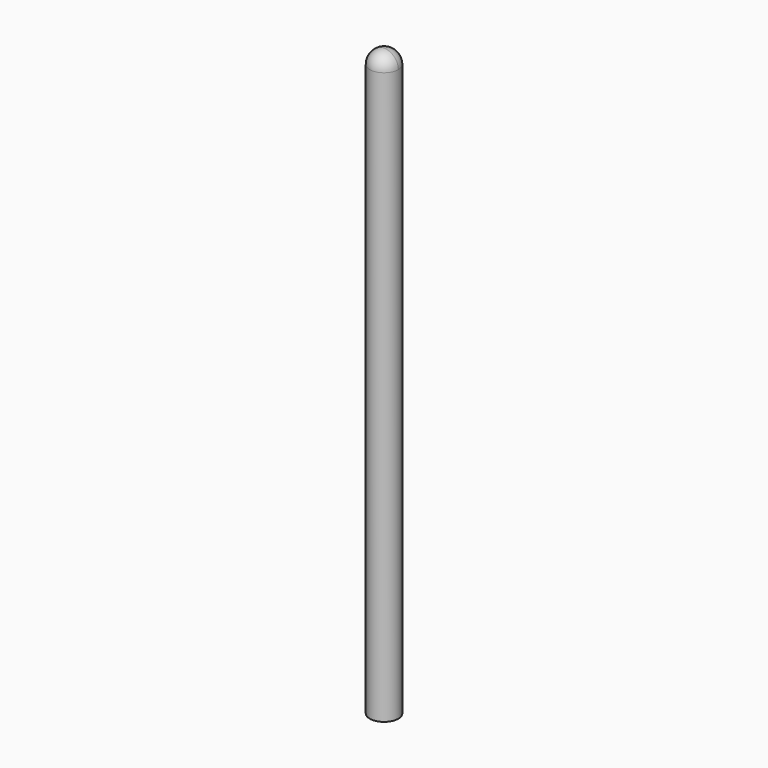
from build123d import *

# Parameters (mm, degrees)
F0_R     = 1.27
F1_DEPTH = 25.4


with BuildPart() as f1:
    # F0 (on Top) → F1 (new body, symmetric)
    with BuildSketch(Plane.XY):
        Circle(F0_R)
    extrude(amount=F1_DEPTH, both=True)

    # F2 (on face) → F3 (revolve)
    with BuildSketch(Plane.XY.offset(25.4)):
        with BuildLine():
            ThreePointArc((-1.27, 0), (-0.8980256121, -0.8980256121), (0, -1.27))
            Line((0, -1.27), (0, 0))
            Line((0, 0), (-1.27, 0))
        make_face()
        with BuildLine():
            Line((0, 0), (0, 1.27))
            ThreePointArc((0, 1.27), (-0.8980256121, 0.8980256121), (-1.27, 0))
            Line((-1.27, 0), (0, 0))
        make_face()
    revolve(axis=Axis((0, 0, 25.4), (0, -1, 0)))


solid = f1.part
